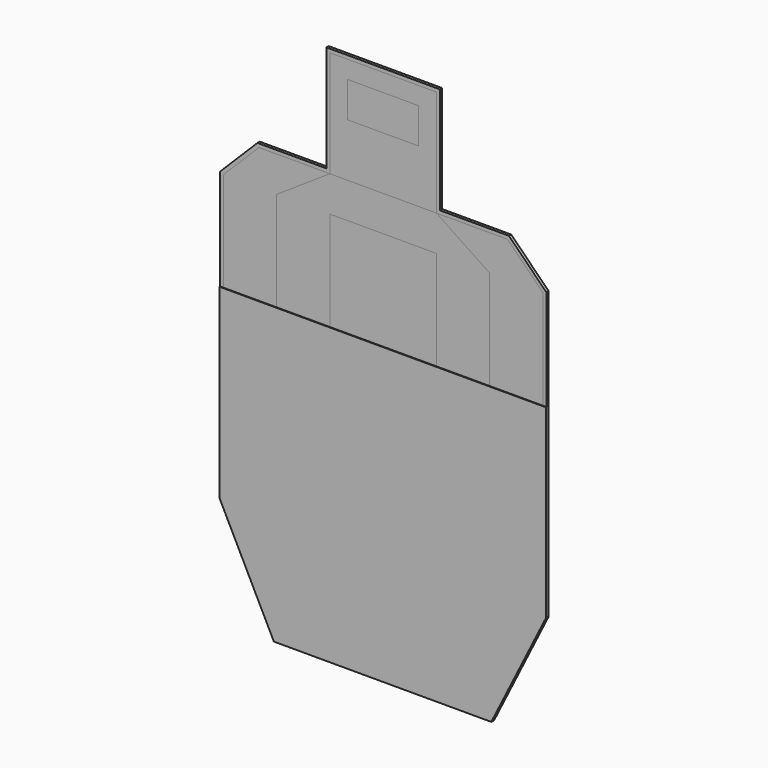
from build123d import *

# Parameters (mm, degrees)
F1_DEPTH  = 3
F2_W      = 150
F2_H      = 150
F3_DEPTH  = 3
F4_W      = 150
F4_H      = 280
F5_DEPTH  = 3
F6_W      = 150
F6_H      = 280
F7_DEPTH  = 3
F9_DEPTH  = 3
F11_DEPTH = 3
F13_DEPTH = 1
F15_DEPTH = 1
F17_DEPTH = 1


with BuildPart() as f1:
    # F0 (on Front) → F1 (new body)
    with BuildSketch(Plane.XZ):
        Polygon((50, 125), (0, 125), (-50, 125), (-50, 100), (-50, 75), (0, 75), (50, 75), (50, 100), align=None)
    extrude(amount=-F1_DEPTH)


with BuildPart() as f3:
    # F2 (on Front) → F3 (new body)
    with BuildSketch(Plane.XZ):
        with Locations((0, 75)):
            Rectangle(F2_W, F2_H)
        Polygon((-50, 125), (0, 125), (50, 125), (50, 100), (50, 75), (0, 75), (-50, 75), (-50, 100), align=None, mode=Mode.SUBTRACT)
    extrude(amount=-F3_DEPTH)


with BuildPart() as f5:
    # F4 (on Front) → F5 (new body)
    with BuildSketch(Plane.XZ):
        with Locations((0, -190)):
            Rectangle(F4_W, F4_H)
    extrude(amount=-F5_DEPTH)


with BuildPart() as f7:
    # F6 (on Front) → F7 (new body)
    with BuildSketch(Plane.XZ):
        Polygon((75, 0), (-75, 0), (-150, -50), (-150, -330), (-100, -450), (100, -450), (150, -330), (150, -50), align=None)
        with Locations((0, -190)):
            Rectangle(F6_W, F6_H, mode=Mode.SUBTRACT)
    extrude(amount=-F7_DEPTH)


with BuildPart() as f9:
    # F8 (on face) → F9 (new body)
    with BuildSketch(Plane.XZ):
        Polygon((175, 0), (75, 0), (150, -50), (150, -330), (100, -450), (-100, -450), (-150, -330), (-150, -50), (-75, 0), (-175, 0), (-225, -50), (-225, -450), (-150, -600), (150, -600), (225, -450), (225, -50), align=None)
    extrude(amount=-F9_DEPTH)


with BuildPart() as f11:
    # F10 (on face) → F11 (new body)
    with BuildSketch(Plane.XZ):
        Polygon((230, -47.928932), (177.071068, 5), (80, 5), (80, 155), (-80, 155), (-80, 5), (-177.071068, 5), (-230, -47.928932), (-230, -451.18034), (-153.09017, -605), (153.09017, -605), (230, -451.18034), align=None)
        Polygon((-75, 150), (75, 150), (75, 0), (175, 0), (225, -50), (225, -450), (150, -600), (-150, -600), (-225, -450), (-225, -50), (-175, 0), (-75, 0), align=None, mode=Mode.SUBTRACT)
    extrude(amount=-F11_DEPTH)


with BuildPart() as f13:
    # F12 (on face) → F13 (new body)
    with BuildSketch(Plane(origin=(0, 3, 0), x_dir=(-1, 0, 0), z_dir=(0, 1, 0))):
        Polygon((75, 0), (75, 150), (-75, 150), (-75, 0), (-175, 0), (-225, -50), (-225, -450), (-150, -600), (150, -600), (225, -450), (225, -50), (175, 0), align=None)
    extrude(amount=F13_DEPTH)


with BuildPart() as f15:
    # F14 (on face) → F15 (new body)
    with BuildSketch(Plane(origin=(0, 4, 0), x_dir=(-1, 0, 0), z_dir=(0, 1, 0))):
        Polygon((80, 155), (-80, 155), (-80, 5), (-177.071068, 5), (-230, -47.928932), (-230, -451.18034), (-153.09017, -605), (153.09017, -605), (230, -451.18034), (230, -47.928932), (177.071068, 5), (80, 5), align=None)
        Polygon((-75, 0), (-75, 150), (75, 150), (75, 0), (175, 0), (225, -50), (225, -450), (150, -600), (-150, -600), (-225, -450), (-225, -50), (-175, 0), align=None, mode=Mode.SUBTRACT)
    extrude(amount=-F15_DEPTH)


with BuildPart() as f17:
    # F16 (on face) → F17 (new body)
    with BuildSketch(Plane.XZ):
        Polygon((-230, -451.18034), (-153.09017, -605), (153.09017, -605), (230, -451.18034), (230, -190), (-230, -190), align=None)
    extrude(amount=F17_DEPTH)


solid = Compound([f1.part, f3.part, f5.part, f7.part, f9.part, f11.part, f13.part, f15.part, f17.part])
